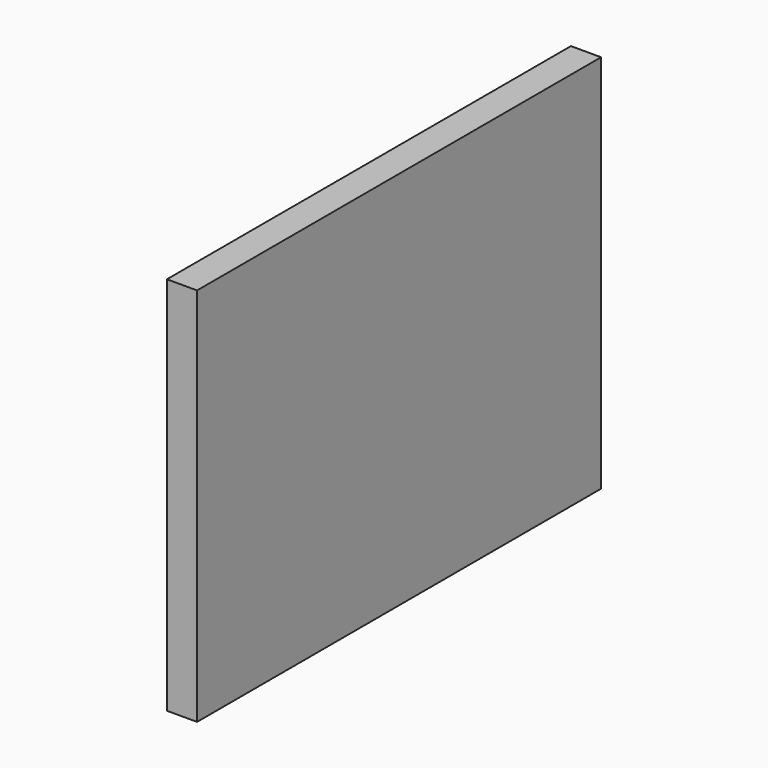
from build123d import *

# Parameters (mm, degrees)
F0_W     = 100
F0_H     = 75
F0_R     = 2.3876
F0_W_2   = 6.35
F1_DEPTH = 6.35


with BuildPart() as f1:
    # F0 (on Right) → F1 (new body)
    with BuildSketch(Plane.YZ):
        Rectangle(F0_W, F0_H)
        with Locations((-42.38, -27.5)):
            Circle(F0_R, mode=Mode.SUBTRACT)
        with Locations((-36.3856, -27.5)):
            Circle(F0_R, mode=Mode.SUBTRACT)
        with Locations((53.175, 0)):
            Rectangle(F0_W_2, F0_H)
        Polygon((-50, 37.5), (50, 37.5), (56.35, 37.5), (56.35, 42.5), (-50, 42.5), align=None)
        with Locations((-42.38, -27.5)):
            Circle(F0_R)
        with Locations((-36.3856, -27.5)):
            Circle(F0_R)
    extrude(amount=F1_DEPTH)


solid = f1.part
